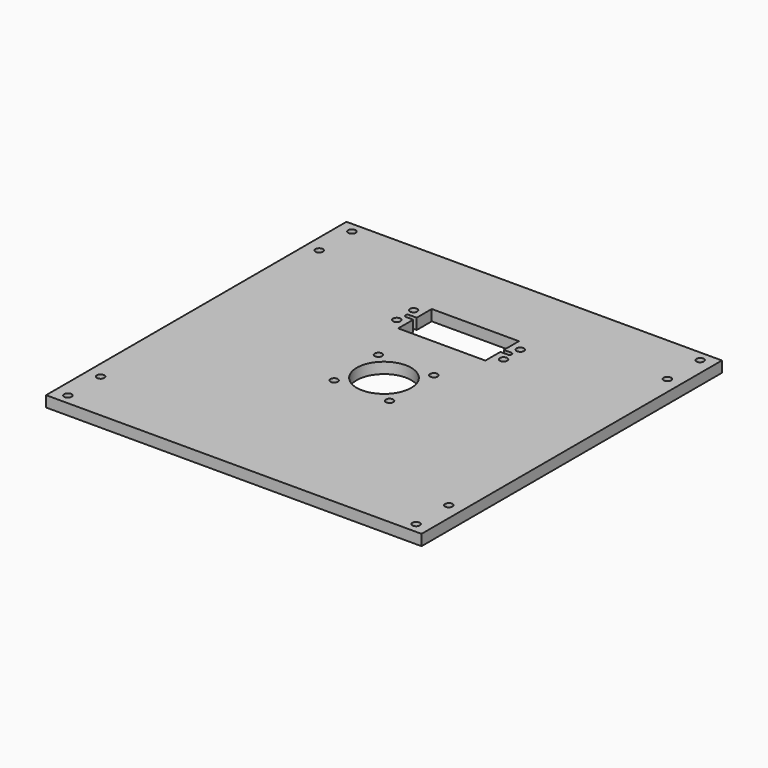
from build123d import *

# Parameters (mm, degrees)
F0_W     = 175.017152
F0_H     = 175.017152
F0_R     = 1.7272
F0_R_2   = 12.7
F1_DEPTH = 5.08


with BuildPart() as f1:
    # F0 (on Top) → F1 (new body)
    with BuildSketch(Plane.XY):
        Rectangle(F0_W, F0_H)
        with Locations((-81.158576, -82.746076)):
            Circle(F0_R, mode=Mode.SUBTRACT)
        with Locations((-81.158576, -63.696076)):
            Circle(F0_R, mode=Mode.SUBTRACT)
        with Locations((-12.909118, -12.909118)):
            Circle(F0_R, mode=Mode.SUBTRACT)
        with Locations((81.158576, -82.746076)):
            Circle(F0_R, mode=Mode.SUBTRACT)
        with Locations((81.158576, -63.696076)):
            Circle(F0_R, mode=Mode.SUBTRACT)
        with Locations((12.909118, -12.909118)):
            Circle(F0_R, mode=Mode.SUBTRACT)
        with Locations((-12.909118, 12.909118)):
            Circle(F0_R, mode=Mode.SUBTRACT)
        with Locations((-24.892, 38.548238)):
            Circle(F0_R, mode=Mode.SUBTRACT)
        with Locations((-81.158576, 63.696076)):
            Circle(F0_R, mode=Mode.SUBTRACT)
        with Locations((-81.158576, 82.746076)):
            Circle(F0_R, mode=Mode.SUBTRACT)
        with Locations((-24.892, 48.327238)):
            Circle(F0_R, mode=Mode.SUBTRACT)
        Circle(F0_R_2, mode=Mode.SUBTRACT)
        with Locations((12.909118, 12.909118)):
            Circle(F0_R, mode=Mode.SUBTRACT)
        with BuildLine():
            Line((-20.32, 44.453738), (-20.32, 53.216738))
            Line((-20.32, 53.216738), (20.32, 53.216738))
            Line((20.32, 53.216738), (20.32, 44.453738))
            Line((20.32, 44.453738), (23.749, 44.453738))
            ThreePointArc((23.749, 44.453738), (24.765, 43.437738), (23.749, 42.421738))
            Line((23.749, 42.421738), (20.32, 42.421738))
            Line((20.32, 42.421738), (20.32, 33.658738))
            Line((20.32, 33.658738), (-20.32, 33.658738))
            Line((-20.32, 33.658738), (-20.32, 42.421738))
            Line((-20.32, 42.421738), (-23.749, 42.421738))
            ThreePointArc((-23.749, 42.421738), (-24.765, 43.437738), (-23.749, 44.453738))
            Line((-23.749, 44.453738), (-20.32, 44.453738))
        make_face(mode=Mode.SUBTRACT)
        with Locations((24.892, 38.548238)):
            Circle(F0_R, mode=Mode.SUBTRACT)
        with Locations((24.892, 48.327238)):
            Circle(F0_R, mode=Mode.SUBTRACT)
        with Locations((81.158576, 63.696076)):
            Circle(F0_R, mode=Mode.SUBTRACT)
        with Locations((81.158576, 82.746076)):
            Circle(F0_R, mode=Mode.SUBTRACT)
    extrude(amount=F1_DEPTH)


solid = f1.part
